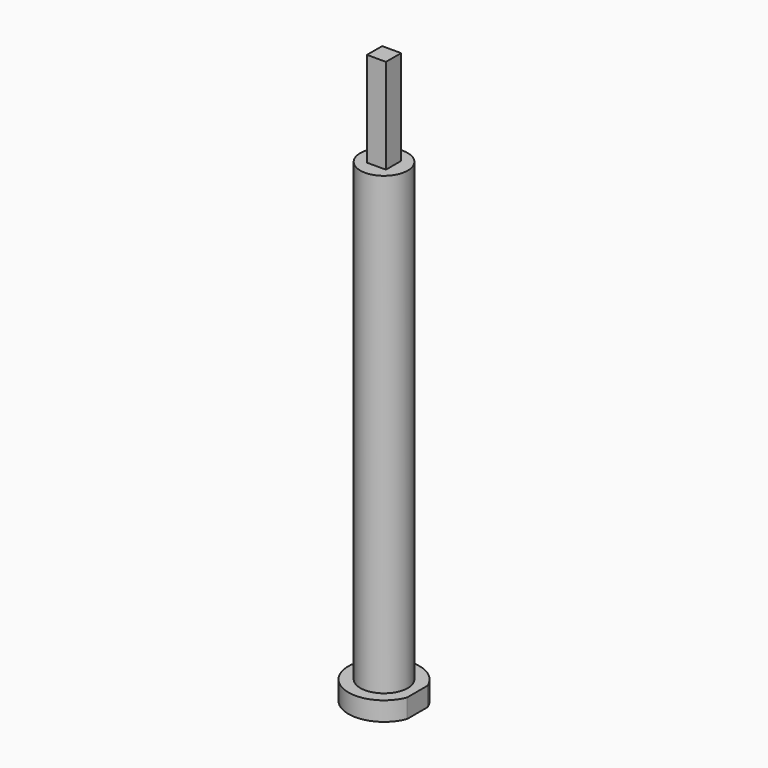
from build123d import *

# Parameters (mm, degrees)
F0_R     = 7.5
F1_DEPTH = 4
F2_R     = 5
F3_DEPTH = 100
F4_W     = 4
F4_H     = 4
F5_DEPTH = 20
F6_W     = 10.298821
F6_H     = 32.871584
F7_DEPTH = 25


with BuildPart() as f1:
    # F0 (on Top) → F1 (new body)
    with BuildSketch(Plane.XY):
        Circle(F0_R)
    extrude(amount=F1_DEPTH)

    # F2 (on Top) → F3 (join)
    with BuildSketch(Plane.XY):
        Circle(F2_R)
    extrude(amount=F3_DEPTH)

    # F4 (on face) → F5 (join)
    with BuildSketch(Plane.XY.offset(100)):
        Rectangle(F4_W, F4_H)
    extrude(amount=F5_DEPTH)

    # F6 (on Top) → F7 (cut)
    with BuildSketch(Plane.XY):
        with Locations((12.149411, 0.144365)):
            Rectangle(F6_W, F6_H)
    extrude(amount=F7_DEPTH, mode=Mode.SUBTRACT)


solid = f1.part
